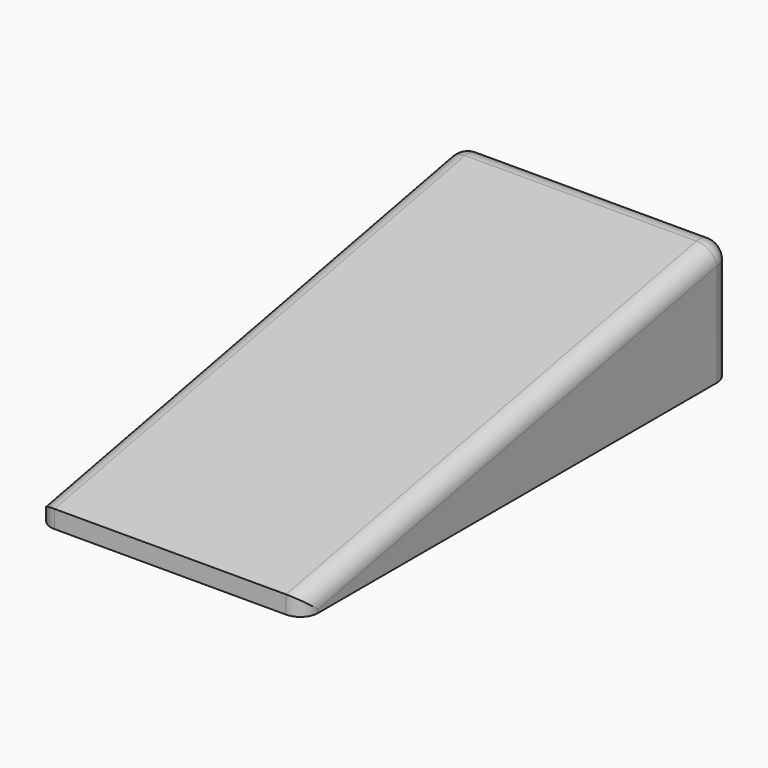
from build123d import *

# Parameters (mm, degrees)
F1_DEPTH = 15
F2_R     = 2.5
F3_DEPTH = 0.5
F4_R     = 2


with BuildPart() as f1:
    # F0 (on Right) → F1 (new body, symmetric)
    with BuildSketch(Plane.YZ):
        Polygon((0, 0), (0, 14), (-60, 2), (-60, 0), align=None)
    extrude(amount=F1_DEPTH, both=True)

    # F2 (on face) → F3 (cut)
    with BuildSketch(Plane(origin=(0, 0, 0), x_dir=(1, 0, 0), z_dir=(0, 0, -1))):
        with Locations((0, 52)):
            Circle(F2_R)
        with Locations((10, 7)):
            Circle(F2_R)
        with Locations((-10, 7)):
            Circle(F2_R)
    extrude(amount=-F3_DEPTH, mode=Mode.SUBTRACT)

    # F4
    f4_edges = [f1.edges().sort_by_distance(p)[0] for p in [
        (15, -30, 8),
        (-15, -30, 8),
        (-15, 0, 7),
        (0, 0, 14),
        (15, 0, 7),
        (-15, -60, 1),
        (15, -60, 1),
    ]]
    fillet(f4_edges, radius=F4_R)


solid = f1.part
